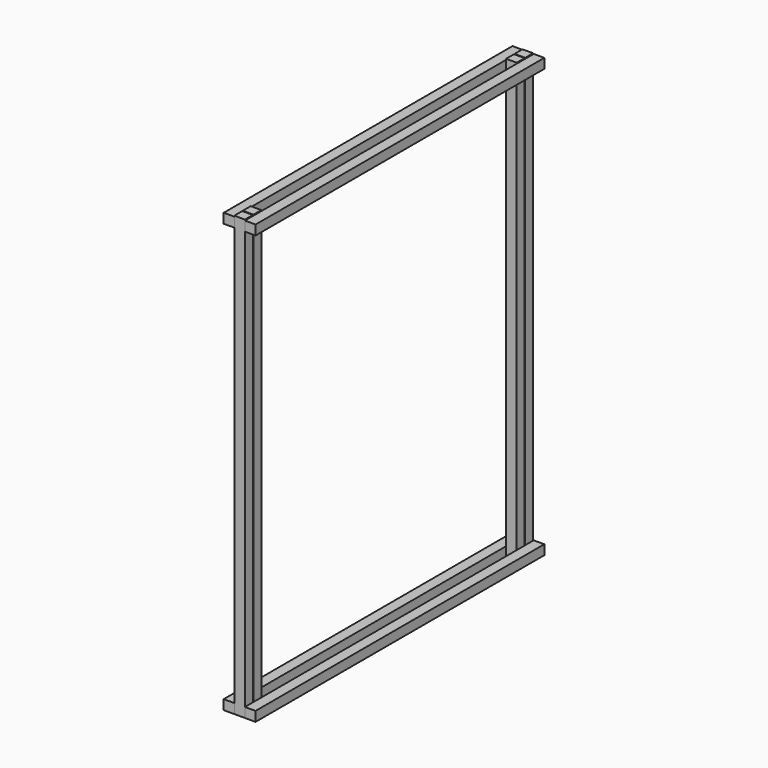
from build123d import *

# Parameters (mm, degrees)
F0_W     = 19.05
F0_H     = 17.77811
F1_DEPTH = 787.4
F5_W     = 19.05
F5_H     = 17.416301
F6_DEPTH = 647.7


with BuildPart() as f1:
    # F0 (on Top) → F1 (new body)
    with BuildSketch(Plane.XY):
        with Locations((9.525, 8.889055)):
            Rectangle(F0_W, F0_H)
    extrude(amount=F1_DEPTH)


with BuildPart() as f2_1:
    # F2: copy of F1
    add(f1.part.moved(Location((0, 19.05, 0))))


with BuildPart() as f3_1:
    # F3: copy of F1
    add(f1.part.moved(Location((0, 609.6, 0))))


with BuildPart() as f4_1:
    # F4: copy of F2_1
    add(f2_1.part.moved(Location((0, 609.6, 0))))


with BuildPart() as f6:
    # F5 (on Front) → F6 (new body)
    with BuildSketch(Plane.XZ):
        with Locations((-9.525, 8.708151)):
            Rectangle(F5_W, F5_H)
    extrude(amount=-F6_DEPTH)


with BuildPart() as f7_1:
    # F7: copy of F6
    add(f6.part.moved(Location((38.1, 0, 0))))


with BuildPart() as f8_1:
    # F8: copy of F7_1
    add(f7_1.part.moved(Location((0, 0, 768.35))))


with BuildPart() as f9_1:
    # F9: copy of F6
    add(f6.part.moved(Location((0, 0, 768.35))))


solid = Compound([f1.part, f2_1.part, f3_1.part, f4_1.part, f6.part, f7_1.part, f8_1.part, f9_1.part])
